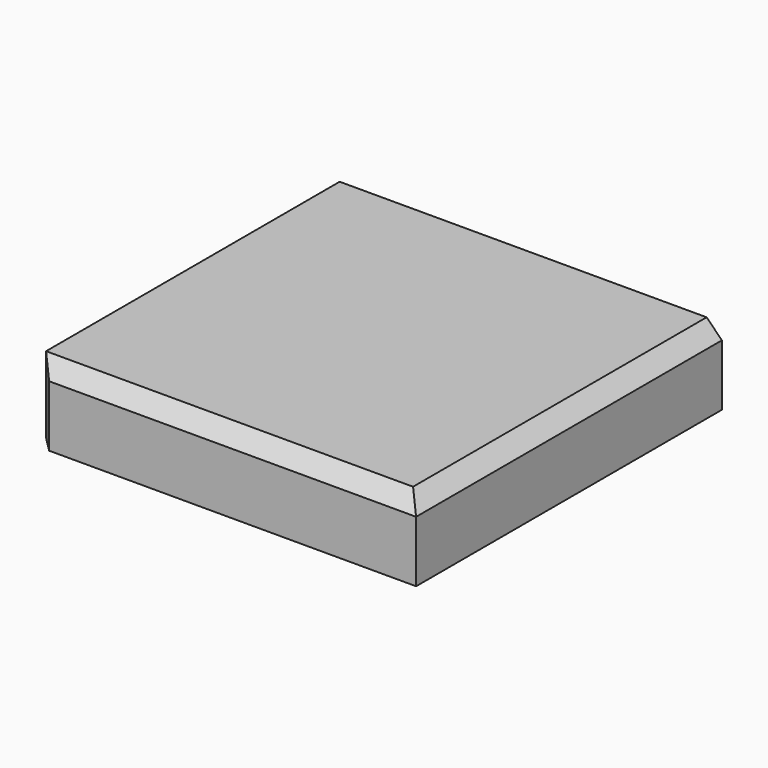
from build123d import *

# Parameters (mm, degrees)
SKETCH_W        = 50
SKETCH_H        = 50
PAD_DEPTH       = 10
CHAMFER_SIZE    = 2
CHAMFER001_SIZE = 2


with BuildPart() as part:
    # Sketch → Pad (new body)
    with BuildSketch(Plane.XY):
        Rectangle(SKETCH_W, SKETCH_H)
    extrude(amount=PAD_DEPTH)

    # Chamfer
    chamfer_edges = [part.edges().sort_by_distance(p)[0] for p in [
        (0, -25, 10),
        (25, 0, 10),
    ]]
    chamfer(chamfer_edges, length=CHAMFER_SIZE)

    # Chamfer001
    chamfer001_edges = [part.edges().sort_by_distance(p)[0] for p in [
        (-25, -25, 4),
    ]]
    chamfer(chamfer001_edges, length=CHAMFER001_SIZE)


solid = part.part
